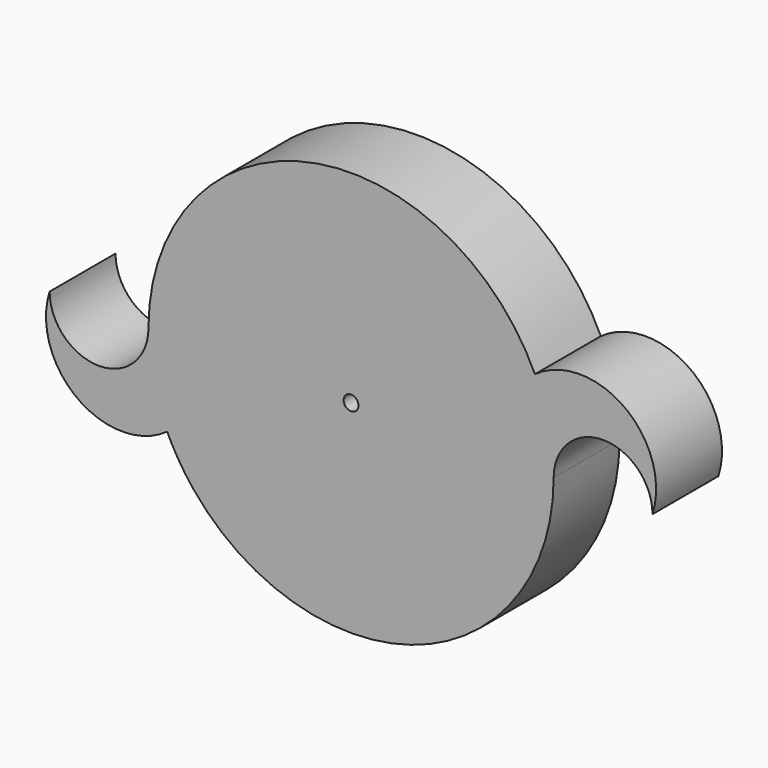
from build123d import *

# Parameters (mm, degrees)
F0_R     = 0.5715
F1_DEPTH = 6.35


with BuildPart() as f1:
    # F0 (on Front) → F1 (new body)
    with BuildSketch(Plane.XZ):
        with BuildLine():
            ThreePointArc((23.241, 0), (21.086285, 6.564897), (14.176824, 6.559977))
            ThreePointArc((14.176824, 6.559977), (-3.358532, 15.255684), (-15.621, 0))
            ThreePointArc((-15.621, 0), (-19.431, -3.81), (-23.241, 0))
            ThreePointArc((-23.241, 0), (-21.086285, -6.564897), (-14.176824, -6.559977))
            ThreePointArc((-14.176824, -6.559977), (-14.00374, -6.921771), (-13.821425, -7.279002))
            ThreePointArc((-13.821425, -7.279002), (-13.043487, -8.595527), (-12.140553, -9.82968))
            ThreePointArc((-12.140553, -9.82968), (-7.354457, -13.781422), (-1.407306, -15.557478))
            ThreePointArc((-1.407306, -15.557478), (10.536416, -11.532544), (15.621, 0))
            ThreePointArc((15.621, 0), (19.431, 3.81), (23.241, 0))
        make_face()
        Circle(F0_R, mode=Mode.SUBTRACT)
    extrude(amount=F1_DEPTH)


solid = f1.part
